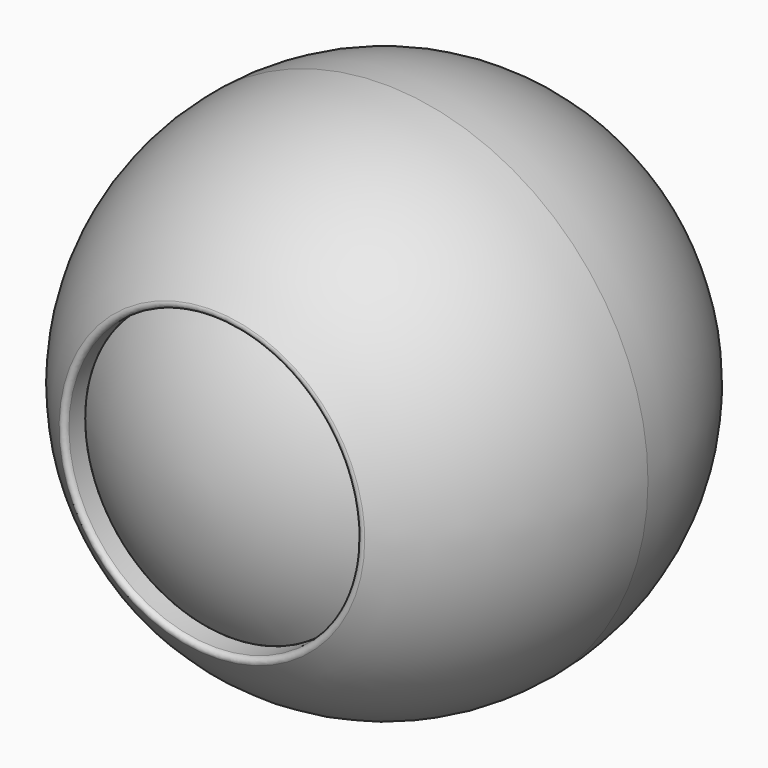
from build123d import *

# Parameters (mm, degrees)
F3_R     = 21.1666666667
F4_DEPTH = 25.4
F5_DEPTH = 4.1275
F6_R     = 0.635


with BuildPart() as f1:
    # F0 (on Top) → F1 (revolve)
    with BuildSketch(Plane.XY):
        with BuildLine():
            ThreePointArc((0, -38.1), (26.9407683632, -26.9407683632), (38.1, 0))
            ThreePointArc((38.1, 0), (26.9407683632, 26.9407683632), (0, 38.1))
            Line((0, 38.1), (0, 0))
            Line((0, 0), (0, -38.1))
        make_face()
    revolve(axis=Axis((0, 19.05, 0), (0, 1, 0)))

    # F3 (on offset) → F4 (cut)
    with BuildSketch(Plane.XZ.offset(31.75)):
        Circle(F3_R)
    extrude(amount=F4_DEPTH, mode=Mode.SUBTRACT)

    # F5 (cut): a face of the model
    f5_faces = [f1.faces().sort_by_distance(p)[0] for p in [
        (0, -31.75, 0),
    ]]
    extrude(f5_faces, amount=-F5_DEPTH, mode=Mode.SUBTRACT)

    # F6
    f6_edges = [f1.edges().sort_by_distance(p)[0] for p in [
        (-21.060567, -31.75, 0),
    ]]
    fillet(f6_edges, radius=F6_R)


with BuildPart() as f8:
    # F7 (on Top) → F8 (revolve)
    with BuildSketch(Plane.XY):
        with BuildLine():
            Line((0, -27.6225), (-21.0605674188, -27.6225))
            ThreePointArc((-21.0605674188, -27.6225), (-11.1146441075, -32.9091885742), (0, -34.7354286896))
            Line((0, -34.7354286896), (0, -27.6225))
        make_face()
    revolve(axis=Axis((0, -31.1789643448, 0), (0, -1, 0)))


solid = Compound([f1.part, f8.part])
